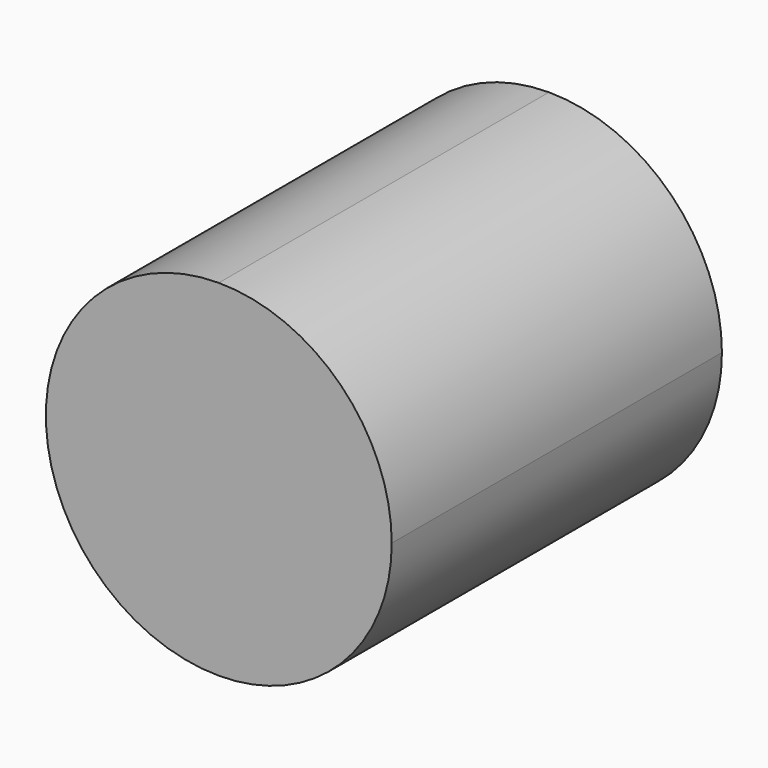
from build123d import *

# Parameters (mm, degrees)
F1_DEPTH = 30


with BuildPart() as f1:
    # F0 (on Front) → F1 (new body)
    with BuildSketch(Plane.XZ):
        with BuildLine():
            ThreePointArc((-51.840823, 22.107506), (-42.952476, 25.78918), (-39.270802, 34.677528))
            ThreePointArc((-39.270802, 34.677528), (-42.952476, 43.565875), (-51.840823, 47.247549))
            Line((-51.840823, 47.247549), (-51.840823, 22.107506))
        make_face()
        with BuildLine():
            Line((-51.840823, 22.107506), (-51.840823, 47.247549))
            ThreePointArc((-51.840823, 47.247549), (-64.410845, 34.677528), (-51.840823, 22.107506))
        make_face()
    extrude(amount=F1_DEPTH)


solid = f1.part
